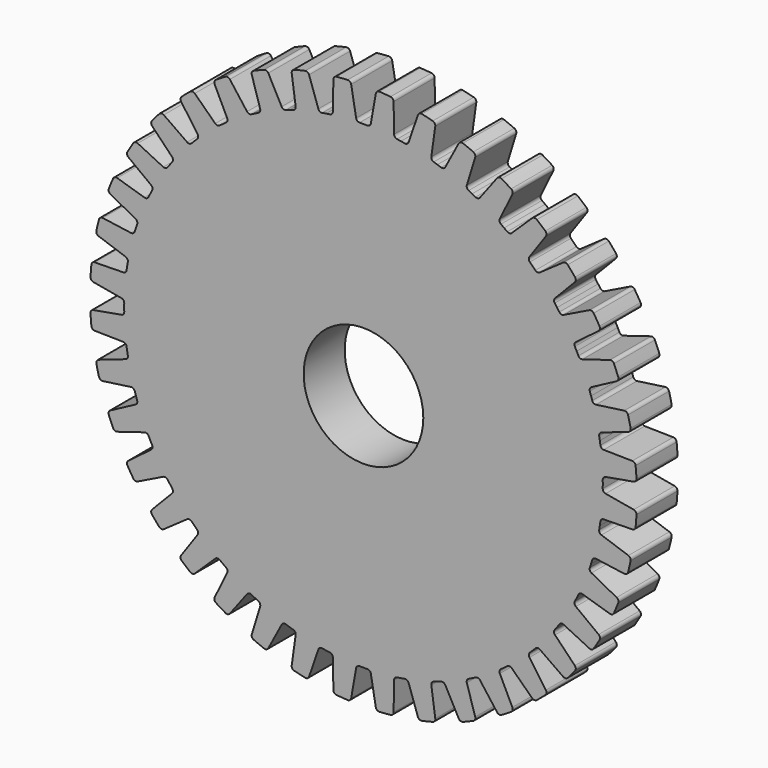
from build123d import *

# Parameters (mm, degrees)
F0_R     = 80
F0_R_2   = 17.5
F1_DEPTH = 7.5
F3_DEPTH = 12.5


with BuildPart() as f1:
    # F0 (on Front) → F1 (new body, symmetric)
    with BuildSketch(Plane.XZ):
        Circle(F0_R)
        Circle(F0_R_2, mode=Mode.SUBTRACT)
    extrude(amount=F1_DEPTH, both=True)

    # F2 (on Front) → F3 (cut, symmetric)
    with BuildSketch(Plane.XZ):
        with BuildLine():
            ThreePointArc((4.6419633423, 79.8652125542), (2.3219599117, 79.9662960388), (0, 80))
            Line((0, 80), (0, 70))
            ThreePointArc((0, 70), (0.5739483219, 69.9976469842), (1.1478580579, 69.990588095))
            ThreePointArc((1.1478580579, 69.990588095), (1.8007410339, 70.2191645624), (2.1490637832, 70.8168054615))
            Line((2.1490637832, 70.8168054615), (3.5991310475, 79.0405455749))
            ThreePointArc((3.5991310475, 79.0405455749), (3.963656053, 79.6512756945), (4.6419633423, 79.8652125542))
        make_face()
        with BuildLine():
            Line((0, 70), (0, 80))
            ThreePointArc((0, 80), (-2.3219599117, 79.9662960388), (-4.6419633423, 79.8652125542))
            ThreePointArc((-4.6419633423, 79.8652125542), (-3.963656053, 79.6512756945), (-3.5991310475, 79.0405455749))
            Line((-3.5991310475, 79.0405455749), (-2.1490637832, 70.8168054615))
            ThreePointArc((-2.1490637832, 70.8168054615), (-1.8007410339, 70.2191645624), (-1.1478580579, 69.990588095))
            ThreePointArc((-1.1478580579, 69.990588095), (-0.5739483219, 69.9976469842), (0, 70))
        make_face()
        with BuildLine():
            ThreePointArc((-7.9088587306, 79.6081023111), (-10.2161120099, 79.3450127948), (-12.5147572032, 79.0150672476))
            Line((-12.5147572032, 79.0150672476), (-10.9504125528, 69.1381838417))
            ThreePointArc((-10.9504125528, 69.1381838417), (-10.3831623944, 69.2256450941), (-9.8152141861, 69.308452374))
            ThreePointArc((-9.8152141861, 69.308452374), (-9.2061265202, 69.6363480849), (-8.9555838364, 70.2811207158))
            Line((-8.9555838364, 70.2811207158), (-8.8098456916, 78.6304534387))
            ThreePointArc((-8.8098456916, 78.6304534387), (-8.5453478334, 79.2906887313), (-7.9088587306, 79.6081023111))
        make_face()
        with BuildLine():
            Line((-10.9504125528, 69.1381838417), (-12.5147572032, 79.0150672476))
            ThreePointArc((-12.5147572032, 79.0150672476), (-14.8028574742, 78.6185436815), (-17.0784848719, 78.1557762068))
            ThreePointArc((-17.0784848719, 78.1557762068), (-16.3750615727, 78.0505839027), (-15.9194852354, 77.5043971586))
            Line((-15.9194852354, 77.5043971586), (-13.20079432, 69.6087454293))
            ThreePointArc((-13.20079432, 69.6087454293), (-12.7632683675, 69.0729521643), (-12.0826662269, 68.9493232516))
            ThreePointArc((-12.0826662269, 68.9493232516), (-11.5169265257, 69.0460744967), (-10.9504125528, 69.1381838417))
        make_face()
        with BuildLine():
            ThreePointArc((-20.2649384535, 77.390776385), (-22.5026293486, 76.7699920047), (-24.72135955, 76.0845213036))
            Line((-24.72135955, 76.0845213036), (-21.6311896062, 66.5739561407))
            ThreePointArc((-21.6311896062, 66.5739561407), (-21.0846051928, 66.749078075), (-20.5366032819, 66.9197125341))
            ThreePointArc((-20.5366032819, 66.9197125341), (-19.9863086861, 67.3388536078), (-19.83971526, 68.0148815284))
            Line((-19.83971526, 68.0148815284), (-21.0018947916, 76.2842185792))
            ThreePointArc((-21.0018947916, 76.2842185792), (-20.8439368957, 76.9777018607), (-20.2649384535, 77.390776385))
        make_face()
        with BuildLine():
            Line((-21.6311896062, 66.5739561407), (-24.72135955, 76.0845213036))
            ThreePointArc((-24.72135955, 76.0845213036), (-26.9192595578, 75.3349418587), (-29.0944774237, 74.5218852649))
            ThreePointArc((-29.0944774237, 74.5218852649), (-28.3832587308, 74.5280277003), (-27.847848863, 74.0598332619))
            Line((-27.847848863, 74.0598332619), (-23.9274774899, 66.6866870664))
            ThreePointArc((-23.9274774899, 66.6866870664), (-23.4115216751, 66.2259344439), (-22.7199590534, 66.21029724))
            ThreePointArc((-22.7199590534, 66.21029724), (-22.176319776, 66.3943585043), (-21.6311896062, 66.5739561407))
        make_face()
        with BuildLine():
            ThreePointArc((-32.1220281363, 73.267832699), (-34.2350572707, 72.3046392265), (-36.3192399792, 71.2805219351))
            Line((-36.3192399792, 71.2805219351), (-31.7793349818, 62.3704566932))
            ThreePointArc((-31.7793349818, 62.3704566932), (-31.2668750356, 62.6289272263), (-30.7523130479, 62.8831872777))
            ThreePointArc((-30.7523130479, 62.8831872777), (-30.2743616014, 63.3832530701), (-30.2353270497, 64.0738902293))
            Line((-30.2353270497, 64.0738902293), (-32.6768075405, 72.0596130856))
            ThreePointArc((-32.6768075405, 72.0596130856), (-32.6292790546, 72.769268496), (-32.1220281363, 73.267832699))
        make_face()
        with BuildLine():
            Line((-31.7793349818, 62.3704566932), (-36.3192399792, 71.2805219351))
            ThreePointArc((-36.3192399792, 71.2805219351), (-38.3728201312, 70.1963437451), (-40.3940673823, 69.053018184))
            ThreePointArc((-40.3940673823, 69.053018184), (-39.6925658603, 69.1703441114), (-39.09050603, 68.7916704798))
            Line((-39.09050603, 68.7916704798), (-34.0649867531, 62.1225811475))
            ThreePointArc((-34.0649867531, 62.1225811475), (-33.4833056206, 61.7482144263), (-32.7978110847, 61.8409539711))
            ThreePointArc((-32.7978110847, 61.8409539711), (-32.2896584343, 62.1077930553), (-31.7793349818, 62.3704566932))
        make_face()
        with BuildLine():
            ThreePointArc((-43.1881668794, 67.34079181), (-45.1245044632, 66.0589062651), (-47.0228201834, 64.72135955))
            Line((-47.0228201834, 64.72135955), (-41.1449676605, 56.6311896062))
            ThreePointArc((-41.1449676605, 56.6311896062), (-40.6792506461, 56.9666443357), (-40.2107988055, 57.2982692533))
            ThreePointArc((-40.2107988055, 57.2982692533), (-39.8169592592, 57.8669464848), (-39.8864447422, 58.5551871037))
            Line((-39.8864447422, 58.5551871037), (-43.5471088397, 66.0606607656))
            ThreePointArc((-43.5471088397, 66.0606607656), (-43.6111800728, 66.7690142336), (-43.1881668794, 67.34079181))
        make_face()
        with BuildLine():
            Line((-41.1449676605, 56.6311896062), (-47.0228201834, 64.72135955))
            ThreePointArc((-47.0228201834, 64.72135955), (-48.8815145209, 63.3292786801), (-50.6990213417, 61.8838366214))
            ThreePointArc((-50.6990213417, 61.8838366214), (-50.0245102863, 62.1094570874), (-49.3706252045, 61.829628464))
            Line((-49.3706252045, 61.829628464), (-43.3637029873, 56.0288111077))
            ThreePointArc((-43.3637029873, 56.0288111077), (-42.730619457, 55.7500484389), (-42.0680721575, 55.948881177))
            ThreePointArc((-42.0680721575, 55.948881177), (-41.6079185388, 56.2919276173), (-41.1449676605, 56.6311896062))
        make_face()
        with BuildLine():
            ThreePointArc((-53.1908696206, 59.7555971353), (-54.9028365962, 58.1865837946), (-56.5685424949, 56.5685424949))
            Line((-56.5685424949, 56.5685424949), (-49.4974746831, 49.4974746831))
            ThreePointArc((-49.4974746831, 49.4974746831), (-49.0899680991, 49.9016536001), (-48.6791612446, 50.3024776778))
            ThreePointArc((-48.6791612446, 50.3024776778), (-48.3791312351, 50.9257636276), (-48.5554257895, 51.5946609381))
            Line((-48.5554257895, 51.5946609381), (-53.3451357947, 58.4350757348))
            ThreePointArc((-53.3451357947, 58.4350757348), (-53.5192291004, 59.1246852471), (-53.1908696206, 59.7555971353))
        make_face()
        with BuildLine():
            Line((-49.4974746831, 49.4974746831), (-56.5685424949, 56.5685424949))
            ThreePointArc((-56.5685424949, 56.5685424949), (-58.1865837946, 54.9028365962), (-59.7555971353, 53.1908696206))
            ThreePointArc((-59.7555971353, 53.1908696206), (-59.1246852471, 53.5192291004), (-58.4350757348, 53.3451357947))
            Line((-58.4350757348, 53.3451357947), (-51.5946609381, 48.5554257895))
            ThreePointArc((-51.5946609381, 48.5554257895), (-50.9257636276, 48.3791312351), (-50.3024776778, 48.6791612446))
            ThreePointArc((-50.3024776778, 48.6791612446), (-49.9016536001, 49.0899680991), (-49.4974746831, 49.4974746831))
        make_face()
        with BuildLine():
            ThreePointArc((-61.8838366214, 50.6990213417), (-63.3292786801, 48.8815145209), (-64.72135955, 47.0228201834))
            Line((-64.72135955, 47.0228201834), (-56.6311896062, 41.1449676605))
            ThreePointArc((-56.6311896062, 41.1449676605), (-56.2919276173, 41.6079185388), (-55.948881177, 42.0680721575))
            ThreePointArc((-55.948881177, 42.0680721575), (-55.7500484389, 42.730619457), (-56.0288111077, 43.3637029873))
            Line((-56.0288111077, 43.3637029873), (-61.829628464, 49.3706252045))
            ThreePointArc((-61.829628464, 49.3706252045), (-62.1094570874, 50.0245102863), (-61.8838366214, 50.6990213417))
        make_face()
        with BuildLine():
            Line((-56.6311896062, 41.1449676605), (-64.72135955, 47.0228201834))
            ThreePointArc((-64.72135955, 47.0228201834), (-66.0589062651, 45.1245044632), (-67.34079181, 43.1881668794))
            ThreePointArc((-67.34079181, 43.1881668794), (-66.7690142336, 43.6111800728), (-66.0606607656, 43.5471088397))
            Line((-66.0606607656, 43.5471088397), (-58.5551871037, 39.8864447422))
            ThreePointArc((-58.5551871037, 39.8864447422), (-57.8669464848, 39.8169592592), (-57.2982692533, 40.2107988055))
            ThreePointArc((-57.2982692533, 40.2107988055), (-56.9666443357, 40.6792506461), (-56.6311896062, 41.1449676605))
        make_face()
        with BuildLine():
            ThreePointArc((-69.053018184, 40.3940673823), (-70.1963437451, 38.3728201312), (-71.2805219351, 36.3192399792))
            Line((-71.2805219351, 36.3192399792), (-62.3704566932, 31.7793349818))
            ThreePointArc((-62.3704566932, 31.7793349818), (-62.1077930553, 32.2896584343), (-61.8409539711, 32.7978110847))
            ThreePointArc((-61.8409539711, 32.7978110847), (-61.7482144263, 33.4833056206), (-62.1225811475, 34.0649867531))
            Line((-62.1225811475, 34.0649867531), (-68.7916704798, 39.09050603))
            ThreePointArc((-68.7916704798, 39.09050603), (-69.1703441114, 39.6925658603), (-69.053018184, 40.3940673823))
        make_face()
        with BuildLine():
            Line((-62.3704566932, 31.7793349818), (-71.2805219351, 36.3192399792))
            ThreePointArc((-71.2805219351, 36.3192399792), (-72.3046392265, 34.2350572707), (-73.267832699, 32.1220281363))
            ThreePointArc((-73.267832699, 32.1220281363), (-72.769268496, 32.6292790546), (-72.0596130856, 32.6768075405))
            Line((-72.0596130856, 32.6768075405), (-64.0738902293, 30.2353270497))
            ThreePointArc((-64.0738902293, 30.2353270497), (-63.3832530701, 30.2743616014), (-62.8831872777, 30.7523130479))
            ThreePointArc((-62.8831872777, 30.7523130479), (-62.6289272263, 31.2668750356), (-62.3704566932, 31.7793349818))
        make_face()
        with BuildLine():
            ThreePointArc((-74.5218852649, 29.0944774237), (-75.3349418587, 26.9192595578), (-76.0845213036, 24.72135955))
            Line((-76.0845213036, 24.72135955), (-66.5739561407, 21.6311896062))
            ThreePointArc((-66.5739561407, 21.6311896062), (-66.3943585043, 22.176319776), (-66.21029724, 22.7199590534))
            ThreePointArc((-66.21029724, 22.7199590534), (-66.2259344439, 23.4115216751), (-66.6866870664, 23.9274774899))
            Line((-66.6866870664, 23.9274774899), (-74.0598332619, 27.847848863))
            ThreePointArc((-74.0598332619, 27.847848863), (-74.5280277003, 28.3832587308), (-74.5218852649, 29.0944774237))
        make_face()
        with BuildLine():
            Line((-66.5739561407, 21.6311896062), (-76.0845213036, 24.72135955))
            ThreePointArc((-76.0845213036, 24.72135955), (-76.7699920047, 22.5026293486), (-77.390776385, 20.2649384535))
            ThreePointArc((-77.390776385, 20.2649384535), (-76.9777018607, 20.8439368957), (-76.2842185792, 21.0018947916))
            Line((-76.2842185792, 21.0018947916), (-68.0148815284, 19.83971526))
            ThreePointArc((-68.0148815284, 19.83971526), (-67.3388536078, 19.9863086861), (-66.9197125341, 20.5366032819))
            ThreePointArc((-66.9197125341, 20.5366032819), (-66.749078075, 21.0846051928), (-66.5739561407, 21.6311896062))
        make_face()
        with BuildLine():
            ThreePointArc((-78.1557762068, 17.0784848719), (-78.6185436815, 14.8028574742), (-79.0150672476, 12.5147572032))
            Line((-79.0150672476, 12.5147572032), (-69.1381838417, 10.9504125528))
            ThreePointArc((-69.1381838417, 10.9504125528), (-69.0460744967, 11.5169265257), (-68.9493232516, 12.0826662269))
            ThreePointArc((-68.9493232516, 12.0826662269), (-69.0729521643, 12.7632683675), (-69.6087454293, 13.20079432))
            Line((-69.6087454293, 13.20079432), (-77.5043971586, 15.9194852354))
            ThreePointArc((-77.5043971586, 15.9194852354), (-78.0505839027, 16.3750615727), (-78.1557762068, 17.0784848719))
        make_face()
        with BuildLine():
            Line((-69.1381838417, 10.9504125528), (-79.0150672476, 12.5147572032))
            ThreePointArc((-79.0150672476, 12.5147572032), (-79.3450127948, 10.2161120099), (-79.6081023111, 7.9088587306))
            ThreePointArc((-79.6081023111, 7.9088587306), (-79.2906887313, 8.5453478334), (-78.6304534387, 8.8098456916))
            Line((-78.6304534387, 8.8098456916), (-70.2811207158, 8.9555838364))
            ThreePointArc((-70.2811207158, 8.9555838364), (-69.6363480849, 9.2061265202), (-69.308452374, 9.8152141861))
            ThreePointArc((-69.308452374, 9.8152141861), (-69.2256450941, 10.3831623944), (-69.1381838417, 10.9504125528))
        make_face()
        with BuildLine():
            ThreePointArc((-79.8652125542, 4.6419633423), (-79.9662960388, 2.3219599117), (-80, 0))
            Line((-80, 0), (-70, 0))
            ThreePointArc((-70, 0), (-69.9976469842, 0.5739483219), (-69.990588095, 1.1478580579))
            ThreePointArc((-69.990588095, 1.1478580579), (-70.2191645624, 1.8007410339), (-70.8168054615, 2.1490637832))
            Line((-70.8168054615, 2.1490637832), (-79.0405455749, 3.5991310475))
            ThreePointArc((-79.0405455749, 3.5991310475), (-79.6512756945, 3.963656053), (-79.8652125542, 4.6419633423))
        make_face()
        with BuildLine():
            Line((-70, 0), (-80, 0))
            ThreePointArc((-80, 0), (-79.9662960388, -2.3219599117), (-79.8652125542, -4.6419633423))
            ThreePointArc((-79.8652125542, -4.6419633423), (-79.6512756945, -3.963656053), (-79.0405455749, -3.5991310475))
            Line((-79.0405455749, -3.5991310475), (-70.8168054615, -2.1490637832))
            ThreePointArc((-70.8168054615, -2.1490637832), (-70.2191645624, -1.8007410339), (-69.990588095, -1.1478580579))
            ThreePointArc((-69.990588095, -1.1478580579), (-69.9976469842, -0.5739483219), (-70, 0))
        make_face()
        with BuildLine():
            ThreePointArc((-79.6081023111, -7.9088587306), (-79.3450127948, -10.2161120099), (-79.0150672476, -12.5147572032))
            Line((-79.0150672476, -12.5147572032), (-69.1381838417, -10.9504125528))
            ThreePointArc((-69.1381838417, -10.9504125528), (-69.2256450941, -10.3831623944), (-69.308452374, -9.8152141861))
            ThreePointArc((-69.308452374, -9.8152141861), (-69.6363480849, -9.2061265202), (-70.2811207158, -8.9555838364))
            Line((-70.2811207158, -8.9555838364), (-78.6304534387, -8.8098456916))
            ThreePointArc((-78.6304534387, -8.8098456916), (-79.2906887313, -8.5453478334), (-79.6081023111, -7.9088587306))
        make_face()
        with BuildLine():
            Line((-69.1381838417, -10.9504125528), (-79.0150672476, -12.5147572032))
            ThreePointArc((-79.0150672476, -12.5147572032), (-78.6185436815, -14.8028574742), (-78.1557762068, -17.0784848719))
            ThreePointArc((-78.1557762068, -17.0784848719), (-78.0505839027, -16.3750615727), (-77.5043971586, -15.9194852354))
            Line((-77.5043971586, -15.9194852354), (-69.6087454293, -13.20079432))
            ThreePointArc((-69.6087454293, -13.20079432), (-69.0729521643, -12.7632683675), (-68.9493232516, -12.0826662269))
            ThreePointArc((-68.9493232516, -12.0826662269), (-69.0460744967, -11.5169265257), (-69.1381838417, -10.9504125528))
        make_face()
        with BuildLine():
            ThreePointArc((-77.390776385, -20.2649384535), (-76.7699920047, -22.5026293486), (-76.0845213036, -24.72135955))
            Line((-76.0845213036, -24.72135955), (-66.5739561407, -21.6311896062))
            ThreePointArc((-66.5739561407, -21.6311896062), (-66.749078075, -21.0846051928), (-66.9197125341, -20.5366032819))
            ThreePointArc((-66.9197125341, -20.5366032819), (-67.3388536078, -19.9863086861), (-68.0148815284, -19.83971526))
            Line((-68.0148815284, -19.83971526), (-76.2842185792, -21.0018947916))
            ThreePointArc((-76.2842185792, -21.0018947916), (-76.9777018607, -20.8439368957), (-77.390776385, -20.2649384535))
        make_face()
        with BuildLine():
            Line((-66.5739561407, -21.6311896062), (-76.0845213036, -24.72135955))
            ThreePointArc((-76.0845213036, -24.72135955), (-75.3349418587, -26.9192595578), (-74.5218852649, -29.0944774237))
            ThreePointArc((-74.5218852649, -29.0944774237), (-74.5280277003, -28.3832587308), (-74.0598332619, -27.847848863))
            Line((-74.0598332619, -27.847848863), (-66.6866870664, -23.9274774899))
            ThreePointArc((-66.6866870664, -23.9274774899), (-66.2259344439, -23.4115216751), (-66.21029724, -22.7199590534))
            ThreePointArc((-66.21029724, -22.7199590534), (-66.3943585043, -22.176319776), (-66.5739561407, -21.6311896062))
        make_face()
        with BuildLine():
            ThreePointArc((-73.267832699, -32.1220281363), (-72.3046392265, -34.2350572707), (-71.2805219351, -36.3192399792))
            Line((-71.2805219351, -36.3192399792), (-62.3704566932, -31.7793349818))
            ThreePointArc((-62.3704566932, -31.7793349818), (-62.6289272263, -31.2668750356), (-62.8831872777, -30.7523130479))
            ThreePointArc((-62.8831872777, -30.7523130479), (-63.3832530701, -30.2743616014), (-64.0738902293, -30.2353270497))
            Line((-64.0738902293, -30.2353270497), (-72.0596130856, -32.6768075405))
            ThreePointArc((-72.0596130856, -32.6768075405), (-72.769268496, -32.6292790546), (-73.267832699, -32.1220281363))
        make_face()
        with BuildLine():
            Line((-62.3704566932, -31.7793349818), (-71.2805219351, -36.3192399792))
            ThreePointArc((-71.2805219351, -36.3192399792), (-70.1963437451, -38.3728201312), (-69.053018184, -40.3940673823))
            ThreePointArc((-69.053018184, -40.3940673823), (-69.1703441114, -39.6925658603), (-68.7916704798, -39.09050603))
            Line((-68.7916704798, -39.09050603), (-62.1225811475, -34.0649867531))
            ThreePointArc((-62.1225811475, -34.0649867531), (-61.7482144263, -33.4833056206), (-61.8409539711, -32.7978110847))
            ThreePointArc((-61.8409539711, -32.7978110847), (-62.1077930553, -32.2896584343), (-62.3704566932, -31.7793349818))
        make_face()
        with BuildLine():
            ThreePointArc((-67.34079181, -43.1881668794), (-66.0589062651, -45.1245044632), (-64.72135955, -47.0228201834))
            Line((-64.72135955, -47.0228201834), (-56.6311896062, -41.1449676605))
            ThreePointArc((-56.6311896062, -41.1449676605), (-56.9666443357, -40.6792506461), (-57.2982692533, -40.2107988055))
            ThreePointArc((-57.2982692533, -40.2107988055), (-57.8669464848, -39.8169592592), (-58.5551871037, -39.8864447422))
            Line((-58.5551871037, -39.8864447422), (-66.0606607656, -43.5471088397))
            ThreePointArc((-66.0606607656, -43.5471088397), (-66.7690142336, -43.6111800728), (-67.34079181, -43.1881668794))
        make_face()
        with BuildLine():
            Line((-56.6311896062, -41.1449676605), (-64.72135955, -47.0228201834))
            ThreePointArc((-64.72135955, -47.0228201834), (-63.3292786801, -48.8815145209), (-61.8838366214, -50.6990213417))
            ThreePointArc((-61.8838366214, -50.6990213417), (-62.1094570874, -50.0245102863), (-61.829628464, -49.3706252045))
            Line((-61.829628464, -49.3706252045), (-56.0288111077, -43.3637029873))
            ThreePointArc((-56.0288111077, -43.3637029873), (-55.7500484389, -42.730619457), (-55.948881177, -42.0680721575))
            ThreePointArc((-55.948881177, -42.0680721575), (-56.2919276173, -41.6079185388), (-56.6311896062, -41.1449676605))
        make_face()
        with BuildLine():
            ThreePointArc((-59.7555971353, -53.1908696206), (-58.1865837946, -54.9028365962), (-56.5685424949, -56.5685424949))
            Line((-56.5685424949, -56.5685424949), (-49.4974746831, -49.4974746831))
            ThreePointArc((-49.4974746831, -49.4974746831), (-49.9016536001, -49.0899680991), (-50.3024776778, -48.6791612446))
            ThreePointArc((-50.3024776778, -48.6791612446), (-50.9257636276, -48.3791312351), (-51.5946609381, -48.5554257895))
            Line((-51.5946609381, -48.5554257895), (-58.4350757348, -53.3451357947))
            ThreePointArc((-58.4350757348, -53.3451357947), (-59.1246852471, -53.5192291004), (-59.7555971353, -53.1908696206))
        make_face()
        with BuildLine():
            Line((-49.4974746831, -49.4974746831), (-56.5685424949, -56.5685424949))
            ThreePointArc((-56.5685424949, -56.5685424949), (-54.9028365962, -58.1865837946), (-53.1908696206, -59.7555971353))
            ThreePointArc((-53.1908696206, -59.7555971353), (-53.5192291004, -59.1246852471), (-53.3451357947, -58.4350757348))
            Line((-53.3451357947, -58.4350757348), (-48.5554257895, -51.5946609381))
            ThreePointArc((-48.5554257895, -51.5946609381), (-48.3791312351, -50.9257636276), (-48.6791612446, -50.3024776778))
            ThreePointArc((-48.6791612446, -50.3024776778), (-49.0899680991, -49.9016536001), (-49.4974746831, -49.4974746831))
        make_face()
        with BuildLine():
            ThreePointArc((-50.6990213417, -61.8838366214), (-48.8815145209, -63.3292786801), (-47.0228201834, -64.72135955))
            Line((-47.0228201834, -64.72135955), (-41.1449676605, -56.6311896062))
            ThreePointArc((-41.1449676605, -56.6311896062), (-41.6079185388, -56.2919276173), (-42.0680721575, -55.948881177))
            ThreePointArc((-42.0680721575, -55.948881177), (-42.730619457, -55.7500484389), (-43.3637029873, -56.0288111077))
            Line((-43.3637029873, -56.0288111077), (-49.3706252045, -61.829628464))
            ThreePointArc((-49.3706252045, -61.829628464), (-50.0245102863, -62.1094570874), (-50.6990213417, -61.8838366214))
        make_face()
        with BuildLine():
            Line((-41.1449676605, -56.6311896062), (-47.0228201834, -64.72135955))
            ThreePointArc((-47.0228201834, -64.72135955), (-45.1245044632, -66.0589062651), (-43.1881668794, -67.34079181))
            ThreePointArc((-43.1881668794, -67.34079181), (-43.6111800728, -66.7690142336), (-43.5471088397, -66.0606607656))
            Line((-43.5471088397, -66.0606607656), (-39.8864447422, -58.5551871037))
            ThreePointArc((-39.8864447422, -58.5551871037), (-39.8169592592, -57.8669464848), (-40.2107988055, -57.2982692533))
            ThreePointArc((-40.2107988055, -57.2982692533), (-40.6792506461, -56.9666443357), (-41.1449676605, -56.6311896062))
        make_face()
        with BuildLine():
            ThreePointArc((-40.3940673823, -69.053018184), (-38.3728201312, -70.1963437451), (-36.3192399792, -71.2805219351))
            Line((-36.3192399792, -71.2805219351), (-31.7793349818, -62.3704566932))
            ThreePointArc((-31.7793349818, -62.3704566932), (-32.2896584343, -62.1077930553), (-32.7978110847, -61.8409539711))
            ThreePointArc((-32.7978110847, -61.8409539711), (-33.4833056206, -61.7482144263), (-34.0649867531, -62.1225811475))
            Line((-34.0649867531, -62.1225811475), (-39.09050603, -68.7916704798))
            ThreePointArc((-39.09050603, -68.7916704798), (-39.6925658603, -69.1703441114), (-40.3940673823, -69.053018184))
        make_face()
        with BuildLine():
            Line((-31.7793349818, -62.3704566932), (-36.3192399792, -71.2805219351))
            ThreePointArc((-36.3192399792, -71.2805219351), (-34.2350572707, -72.3046392265), (-32.1220281363, -73.267832699))
            ThreePointArc((-32.1220281363, -73.267832699), (-32.6292790546, -72.769268496), (-32.6768075405, -72.0596130856))
            Line((-32.6768075405, -72.0596130856), (-30.2353270497, -64.0738902293))
            ThreePointArc((-30.2353270497, -64.0738902293), (-30.2743616014, -63.3832530701), (-30.7523130479, -62.8831872777))
            ThreePointArc((-30.7523130479, -62.8831872777), (-31.2668750356, -62.6289272263), (-31.7793349818, -62.3704566932))
        make_face()
        with BuildLine():
            ThreePointArc((-29.0944774237, -74.5218852649), (-26.9192595578, -75.3349418587), (-24.72135955, -76.0845213036))
            Line((-24.72135955, -76.0845213036), (-21.6311896062, -66.5739561407))
            ThreePointArc((-21.6311896062, -66.5739561407), (-22.176319776, -66.3943585043), (-22.7199590534, -66.21029724))
            ThreePointArc((-22.7199590534, -66.21029724), (-23.4115216751, -66.2259344439), (-23.9274774899, -66.6866870664))
            Line((-23.9274774899, -66.6866870664), (-27.847848863, -74.0598332619))
            ThreePointArc((-27.847848863, -74.0598332619), (-28.3832587308, -74.5280277003), (-29.0944774237, -74.5218852649))
        make_face()
        with BuildLine():
            Line((-21.6311896062, -66.5739561407), (-24.72135955, -76.0845213036))
            ThreePointArc((-24.72135955, -76.0845213036), (-22.5026293486, -76.7699920047), (-20.2649384535, -77.390776385))
            ThreePointArc((-20.2649384535, -77.390776385), (-20.8439368957, -76.9777018607), (-21.0018947916, -76.2842185792))
            Line((-21.0018947916, -76.2842185792), (-19.83971526, -68.0148815284))
            ThreePointArc((-19.83971526, -68.0148815284), (-19.9863086861, -67.3388536078), (-20.5366032819, -66.9197125341))
            ThreePointArc((-20.5366032819, -66.9197125341), (-21.0846051928, -66.749078075), (-21.6311896062, -66.5739561407))
        make_face()
        with BuildLine():
            ThreePointArc((-17.0784848719, -78.1557762068), (-14.8028574742, -78.6185436815), (-12.5147572032, -79.0150672476))
            Line((-12.5147572032, -79.0150672476), (-10.9504125528, -69.1381838417))
            ThreePointArc((-10.9504125528, -69.1381838417), (-11.5169265257, -69.0460744967), (-12.0826662269, -68.9493232516))
            ThreePointArc((-12.0826662269, -68.9493232516), (-12.7632683675, -69.0729521643), (-13.20079432, -69.6087454293))
            Line((-13.20079432, -69.6087454293), (-15.9194852354, -77.5043971586))
            ThreePointArc((-15.9194852354, -77.5043971586), (-16.3750615727, -78.0505839027), (-17.0784848719, -78.1557762068))
        make_face()
        with BuildLine():
            Line((-10.9504125528, -69.1381838417), (-12.5147572032, -79.0150672476))
            ThreePointArc((-12.5147572032, -79.0150672476), (-10.2161120099, -79.3450127948), (-7.9088587306, -79.6081023111))
            ThreePointArc((-7.9088587306, -79.6081023111), (-8.5453478334, -79.2906887313), (-8.8098456916, -78.6304534387))
            Line((-8.8098456916, -78.6304534387), (-8.9555838364, -70.2811207158))
            ThreePointArc((-8.9555838364, -70.2811207158), (-9.2061265202, -69.6363480849), (-9.8152141861, -69.308452374))
            ThreePointArc((-9.8152141861, -69.308452374), (-10.3831623944, -69.2256450941), (-10.9504125528, -69.1381838417))
        make_face()
        with BuildLine():
            ThreePointArc((-4.6419633423, -79.8652125542), (-2.3219599117, -79.9662960388), (0, -80))
            Line((0, -80), (0, -70))
            ThreePointArc((0, -70), (-0.5739483219, -69.9976469842), (-1.1478580579, -69.990588095))
            ThreePointArc((-1.1478580579, -69.990588095), (-1.8007410339, -70.2191645624), (-2.1490637832, -70.8168054615))
            Line((-2.1490637832, -70.8168054615), (-3.5991310475, -79.0405455749))
            ThreePointArc((-3.5991310475, -79.0405455749), (-3.963656053, -79.6512756945), (-4.6419633423, -79.8652125542))
        make_face()
        with BuildLine():
            Line((0, -70), (0, -80))
            ThreePointArc((0, -80), (2.3219599117, -79.9662960388), (4.6419633423, -79.8652125542))
            ThreePointArc((4.6419633423, -79.8652125542), (3.963656053, -79.6512756945), (3.5991310475, -79.0405455749))
            Line((3.5991310475, -79.0405455749), (2.1490637832, -70.8168054615))
            ThreePointArc((2.1490637832, -70.8168054615), (1.8007410339, -70.2191645624), (1.1478580579, -69.990588095))
            ThreePointArc((1.1478580579, -69.990588095), (0.5739483219, -69.9976469842), (0, -70))
        make_face()
        with BuildLine():
            ThreePointArc((7.9088587306, -79.6081023111), (10.2161120099, -79.3450127948), (12.5147572032, -79.0150672476))
            Line((12.5147572032, -79.0150672476), (10.9504125528, -69.1381838417))
            ThreePointArc((10.9504125528, -69.1381838417), (10.3831623944, -69.2256450941), (9.8152141861, -69.308452374))
            ThreePointArc((9.8152141861, -69.308452374), (9.2061265202, -69.6363480849), (8.9555838364, -70.2811207158))
            Line((8.9555838364, -70.2811207158), (8.8098456916, -78.6304534387))
            ThreePointArc((8.8098456916, -78.6304534387), (8.5453478334, -79.2906887313), (7.9088587306, -79.6081023111))
        make_face()
        with BuildLine():
            Line((10.9504125528, -69.1381838417), (12.5147572032, -79.0150672476))
            ThreePointArc((12.5147572032, -79.0150672476), (14.8028574742, -78.6185436815), (17.0784848719, -78.1557762068))
            ThreePointArc((17.0784848719, -78.1557762068), (16.3750615727, -78.0505839027), (15.9194852354, -77.5043971586))
            Line((15.9194852354, -77.5043971586), (13.20079432, -69.6087454293))
            ThreePointArc((13.20079432, -69.6087454293), (12.7632683675, -69.0729521643), (12.0826662269, -68.9493232516))
            ThreePointArc((12.0826662269, -68.9493232516), (11.5169265257, -69.0460744967), (10.9504125528, -69.1381838417))
        make_face()
        with BuildLine():
            ThreePointArc((20.2649384535, -77.390776385), (22.5026293486, -76.7699920047), (24.72135955, -76.0845213036))
            Line((24.72135955, -76.0845213036), (21.6311896062, -66.5739561407))
            ThreePointArc((21.6311896062, -66.5739561407), (21.0846051928, -66.749078075), (20.5366032819, -66.9197125341))
            ThreePointArc((20.5366032819, -66.9197125341), (19.9863086861, -67.3388536078), (19.83971526, -68.0148815284))
            Line((19.83971526, -68.0148815284), (21.0018947916, -76.2842185792))
            ThreePointArc((21.0018947916, -76.2842185792), (20.8439368957, -76.9777018607), (20.2649384535, -77.390776385))
        make_face()
        with BuildLine():
            Line((21.6311896062, -66.5739561407), (24.72135955, -76.0845213036))
            ThreePointArc((24.72135955, -76.0845213036), (26.9192595578, -75.3349418587), (29.0944774237, -74.5218852649))
            ThreePointArc((29.0944774237, -74.5218852649), (28.3832587308, -74.5280277003), (27.847848863, -74.0598332619))
            Line((27.847848863, -74.0598332619), (23.9274774899, -66.6866870664))
            ThreePointArc((23.9274774899, -66.6866870664), (23.4115216751, -66.2259344439), (22.7199590534, -66.21029724))
            ThreePointArc((22.7199590534, -66.21029724), (22.176319776, -66.3943585043), (21.6311896062, -66.5739561407))
        make_face()
        with BuildLine():
            ThreePointArc((32.1220281363, -73.267832699), (34.2350572707, -72.3046392265), (36.3192399792, -71.2805219351))
            Line((36.3192399792, -71.2805219351), (31.7793349818, -62.3704566932))
            ThreePointArc((31.7793349818, -62.3704566932), (31.2668750356, -62.6289272263), (30.7523130479, -62.8831872777))
            ThreePointArc((30.7523130479, -62.8831872777), (30.2743616014, -63.3832530701), (30.2353270497, -64.0738902293))
            Line((30.2353270497, -64.0738902293), (32.6768075405, -72.0596130856))
            ThreePointArc((32.6768075405, -72.0596130856), (32.6292790546, -72.769268496), (32.1220281363, -73.267832699))
        make_face()
        with BuildLine():
            Line((31.7793349818, -62.3704566932), (36.3192399792, -71.2805219351))
            ThreePointArc((36.3192399792, -71.2805219351), (38.3728201312, -70.1963437451), (40.3940673823, -69.053018184))
            ThreePointArc((40.3940673823, -69.053018184), (39.6925658603, -69.1703441114), (39.09050603, -68.7916704798))
            Line((39.09050603, -68.7916704798), (34.0649867531, -62.1225811475))
            ThreePointArc((34.0649867531, -62.1225811475), (33.4833056206, -61.7482144263), (32.7978110847, -61.8409539711))
            ThreePointArc((32.7978110847, -61.8409539711), (32.2896584343, -62.1077930553), (31.7793349818, -62.3704566932))
        make_face()
        with BuildLine():
            ThreePointArc((43.1881668794, -67.34079181), (45.1245044632, -66.0589062651), (47.0228201834, -64.72135955))
            Line((47.0228201834, -64.72135955), (41.1449676605, -56.6311896062))
            ThreePointArc((41.1449676605, -56.6311896062), (40.6792506461, -56.9666443357), (40.2107988055, -57.2982692533))
            ThreePointArc((40.2107988055, -57.2982692533), (39.8169592592, -57.8669464848), (39.8864447422, -58.5551871037))
            Line((39.8864447422, -58.5551871037), (43.5471088397, -66.0606607656))
            ThreePointArc((43.5471088397, -66.0606607656), (43.6111800728, -66.7690142336), (43.1881668794, -67.34079181))
        make_face()
        with BuildLine():
            Line((41.1449676605, -56.6311896062), (47.0228201834, -64.72135955))
            ThreePointArc((47.0228201834, -64.72135955), (48.8815145209, -63.3292786801), (50.6990213417, -61.8838366214))
            ThreePointArc((50.6990213417, -61.8838366214), (50.0245102863, -62.1094570874), (49.3706252045, -61.829628464))
            Line((49.3706252045, -61.829628464), (43.3637029873, -56.0288111077))
            ThreePointArc((43.3637029873, -56.0288111077), (42.730619457, -55.7500484389), (42.0680721575, -55.948881177))
            ThreePointArc((42.0680721575, -55.948881177), (41.6079185388, -56.2919276173), (41.1449676605, -56.6311896062))
        make_face()
        with BuildLine():
            ThreePointArc((53.1908696206, -59.7555971353), (54.9028365962, -58.1865837946), (56.5685424949, -56.5685424949))
            Line((56.5685424949, -56.5685424949), (49.4974746831, -49.4974746831))
            ThreePointArc((49.4974746831, -49.4974746831), (49.0899680991, -49.9016536001), (48.6791612446, -50.3024776778))
            ThreePointArc((48.6791612446, -50.3024776778), (48.3791312351, -50.9257636276), (48.5554257895, -51.5946609381))
            Line((48.5554257895, -51.5946609381), (53.3451357947, -58.4350757348))
            ThreePointArc((53.3451357947, -58.4350757348), (53.5192291004, -59.1246852471), (53.1908696206, -59.7555971353))
        make_face()
        with BuildLine():
            Line((49.4974746831, -49.4974746831), (56.5685424949, -56.5685424949))
            ThreePointArc((56.5685424949, -56.5685424949), (58.1865837946, -54.9028365962), (59.7555971353, -53.1908696206))
            ThreePointArc((59.7555971353, -53.1908696206), (59.1246852471, -53.5192291004), (58.4350757348, -53.3451357947))
            Line((58.4350757348, -53.3451357947), (51.5946609381, -48.5554257895))
            ThreePointArc((51.5946609381, -48.5554257895), (50.9257636276, -48.3791312351), (50.3024776778, -48.6791612446))
            ThreePointArc((50.3024776778, -48.6791612446), (49.9016536001, -49.0899680991), (49.4974746831, -49.4974746831))
        make_face()
        with BuildLine():
            ThreePointArc((61.8838366214, -50.6990213417), (63.3292786801, -48.8815145209), (64.72135955, -47.0228201834))
            Line((64.72135955, -47.0228201834), (56.6311896062, -41.1449676605))
            ThreePointArc((56.6311896062, -41.1449676605), (56.2919276173, -41.6079185388), (55.948881177, -42.0680721575))
            ThreePointArc((55.948881177, -42.0680721575), (55.7500484389, -42.730619457), (56.0288111077, -43.3637029873))
            Line((56.0288111077, -43.3637029873), (61.829628464, -49.3706252045))
            ThreePointArc((61.829628464, -49.3706252045), (62.1094570874, -50.0245102863), (61.8838366214, -50.6990213417))
        make_face()
        with BuildLine():
            Line((56.6311896062, -41.1449676605), (64.72135955, -47.0228201834))
            ThreePointArc((64.72135955, -47.0228201834), (66.0589062651, -45.1245044632), (67.34079181, -43.1881668794))
            ThreePointArc((67.34079181, -43.1881668794), (66.7690142336, -43.6111800728), (66.0606607656, -43.5471088397))
            Line((66.0606607656, -43.5471088397), (58.5551871037, -39.8864447422))
            ThreePointArc((58.5551871037, -39.8864447422), (57.8669464848, -39.8169592592), (57.2982692533, -40.2107988055))
            ThreePointArc((57.2982692533, -40.2107988055), (56.9666443357, -40.6792506461), (56.6311896062, -41.1449676605))
        make_face()
        with BuildLine():
            ThreePointArc((69.053018184, -40.3940673823), (70.1963437451, -38.3728201312), (71.2805219351, -36.3192399792))
            Line((71.2805219351, -36.3192399792), (62.3704566932, -31.7793349818))
            ThreePointArc((62.3704566932, -31.7793349818), (62.1077930553, -32.2896584343), (61.8409539711, -32.7978110847))
            ThreePointArc((61.8409539711, -32.7978110847), (61.7482144263, -33.4833056206), (62.1225811475, -34.0649867531))
            Line((62.1225811475, -34.0649867531), (68.7916704798, -39.09050603))
            ThreePointArc((68.7916704798, -39.09050603), (69.1703441114, -39.6925658603), (69.053018184, -40.3940673823))
        make_face()
        with BuildLine():
            Line((62.3704566932, -31.7793349818), (71.2805219351, -36.3192399792))
            ThreePointArc((71.2805219351, -36.3192399792), (72.3046392265, -34.2350572707), (73.267832699, -32.1220281363))
            ThreePointArc((73.267832699, -32.1220281363), (72.769268496, -32.6292790546), (72.0596130856, -32.6768075405))
            Line((72.0596130856, -32.6768075405), (64.0738902293, -30.2353270497))
            ThreePointArc((64.0738902293, -30.2353270497), (63.3832530701, -30.2743616014), (62.8831872777, -30.7523130479))
            ThreePointArc((62.8831872777, -30.7523130479), (62.6289272263, -31.2668750356), (62.3704566932, -31.7793349818))
        make_face()
        with BuildLine():
            ThreePointArc((74.5218852649, -29.0944774237), (75.3349418587, -26.9192595578), (76.0845213036, -24.72135955))
            Line((76.0845213036, -24.72135955), (66.5739561407, -21.6311896062))
            ThreePointArc((66.5739561407, -21.6311896062), (66.3943585043, -22.176319776), (66.21029724, -22.7199590534))
            ThreePointArc((66.21029724, -22.7199590534), (66.2259344439, -23.4115216751), (66.6866870664, -23.9274774899))
            Line((66.6866870664, -23.9274774899), (74.0598332619, -27.847848863))
            ThreePointArc((74.0598332619, -27.847848863), (74.5280277003, -28.3832587308), (74.5218852649, -29.0944774237))
        make_face()
        with BuildLine():
            Line((66.5739561407, -21.6311896062), (76.0845213036, -24.72135955))
            ThreePointArc((76.0845213036, -24.72135955), (76.7699920047, -22.5026293486), (77.390776385, -20.2649384535))
            ThreePointArc((77.390776385, -20.2649384535), (76.9777018607, -20.8439368957), (76.2842185792, -21.0018947916))
            Line((76.2842185792, -21.0018947916), (68.0148815284, -19.83971526))
            ThreePointArc((68.0148815284, -19.83971526), (67.3388536078, -19.9863086861), (66.9197125341, -20.5366032819))
            ThreePointArc((66.9197125341, -20.5366032819), (66.749078075, -21.0846051928), (66.5739561407, -21.6311896062))
        make_face()
        with BuildLine():
            ThreePointArc((78.1557762068, -17.0784848719), (78.6185436815, -14.8028574742), (79.0150672476, -12.5147572032))
            Line((79.0150672476, -12.5147572032), (69.1381838417, -10.9504125528))
            ThreePointArc((69.1381838417, -10.9504125528), (69.0460744967, -11.5169265257), (68.9493232516, -12.0826662269))
            ThreePointArc((68.9493232516, -12.0826662269), (69.0729521643, -12.7632683675), (69.6087454293, -13.20079432))
            Line((69.6087454293, -13.20079432), (77.5043971586, -15.9194852354))
            ThreePointArc((77.5043971586, -15.9194852354), (78.0505839027, -16.3750615727), (78.1557762068, -17.0784848719))
        make_face()
        with BuildLine():
            Line((69.1381838417, -10.9504125528), (79.0150672476, -12.5147572032))
            ThreePointArc((79.0150672476, -12.5147572032), (79.3450127948, -10.2161120099), (79.6081023111, -7.9088587306))
            ThreePointArc((79.6081023111, -7.9088587306), (79.2906887313, -8.5453478334), (78.6304534387, -8.8098456916))
            Line((78.6304534387, -8.8098456916), (70.2811207158, -8.9555838364))
            ThreePointArc((70.2811207158, -8.9555838364), (69.6363480849, -9.2061265202), (69.308452374, -9.8152141861))
            ThreePointArc((69.308452374, -9.8152141861), (69.2256450941, -10.3831623944), (69.1381838417, -10.9504125528))
        make_face()
        with BuildLine():
            ThreePointArc((79.8652125542, -4.6419633423), (79.9662960388, -2.3219599117), (80, 0))
            Line((80, 0), (70, 0))
            ThreePointArc((70, 0), (69.9976469842, -0.5739483219), (69.990588095, -1.1478580579))
            ThreePointArc((69.990588095, -1.1478580579), (70.2191645624, -1.8007410339), (70.8168054615, -2.1490637832))
            Line((70.8168054615, -2.1490637832), (79.0405455749, -3.5991310475))
            ThreePointArc((79.0405455749, -3.5991310475), (79.6512756945, -3.963656053), (79.8652125542, -4.6419633423))
        make_face()
        with BuildLine():
            Line((70, 0), (80, 0))
            ThreePointArc((80, 0), (79.9662960388, 2.3219599117), (79.8652125542, 4.6419633423))
            ThreePointArc((79.8652125542, 4.6419633423), (79.6512756945, 3.963656053), (79.0405455749, 3.5991310475))
            Line((79.0405455749, 3.5991310475), (70.8168054615, 2.1490637832))
            ThreePointArc((70.8168054615, 2.1490637832), (70.2191645624, 1.8007410339), (69.990588095, 1.1478580579))
            ThreePointArc((69.990588095, 1.1478580579), (69.9976469842, 0.5739483219), (70, 0))
        make_face()
        with BuildLine():
            ThreePointArc((79.6081023111, 7.9088587306), (79.3450127948, 10.2161120099), (79.0150672476, 12.5147572032))
            Line((79.0150672476, 12.5147572032), (69.1381838417, 10.9504125528))
            ThreePointArc((69.1381838417, 10.9504125528), (69.2256450941, 10.3831623944), (69.308452374, 9.8152141861))
            ThreePointArc((69.308452374, 9.8152141861), (69.6363480849, 9.2061265202), (70.2811207158, 8.9555838364))
            Line((70.2811207158, 8.9555838364), (78.6304534387, 8.8098456916))
            ThreePointArc((78.6304534387, 8.8098456916), (79.2906887313, 8.5453478334), (79.6081023111, 7.9088587306))
        make_face()
        with BuildLine():
            Line((69.1381838417, 10.9504125528), (79.0150672476, 12.5147572032))
            ThreePointArc((79.0150672476, 12.5147572032), (78.6185436815, 14.8028574742), (78.1557762068, 17.0784848719))
            ThreePointArc((78.1557762068, 17.0784848719), (78.0505839027, 16.3750615727), (77.5043971586, 15.9194852354))
            Line((77.5043971586, 15.9194852354), (69.6087454293, 13.20079432))
            ThreePointArc((69.6087454293, 13.20079432), (69.0729521643, 12.7632683675), (68.9493232516, 12.0826662269))
            ThreePointArc((68.9493232516, 12.0826662269), (69.0460744967, 11.5169265257), (69.1381838417, 10.9504125528))
        make_face()
        with BuildLine():
            ThreePointArc((77.390776385, 20.2649384535), (76.7699920047, 22.5026293486), (76.0845213036, 24.72135955))
            Line((76.0845213036, 24.72135955), (66.5739561407, 21.6311896062))
            ThreePointArc((66.5739561407, 21.6311896062), (66.749078075, 21.0846051928), (66.9197125341, 20.5366032819))
            ThreePointArc((66.9197125341, 20.5366032819), (67.3388536078, 19.9863086861), (68.0148815284, 19.83971526))
            Line((68.0148815284, 19.83971526), (76.2842185792, 21.0018947916))
            ThreePointArc((76.2842185792, 21.0018947916), (76.9777018607, 20.8439368957), (77.390776385, 20.2649384535))
        make_face()
        with BuildLine():
            Line((66.5739561407, 21.6311896062), (76.0845213036, 24.72135955))
            ThreePointArc((76.0845213036, 24.72135955), (75.3349418587, 26.9192595578), (74.5218852649, 29.0944774237))
            ThreePointArc((74.5218852649, 29.0944774237), (74.5280277003, 28.3832587308), (74.0598332619, 27.847848863))
            Line((74.0598332619, 27.847848863), (66.6866870664, 23.9274774899))
            ThreePointArc((66.6866870664, 23.9274774899), (66.2259344439, 23.4115216751), (66.21029724, 22.7199590534))
            ThreePointArc((66.21029724, 22.7199590534), (66.3943585043, 22.176319776), (66.5739561407, 21.6311896062))
        make_face()
        with BuildLine():
            ThreePointArc((73.267832699, 32.1220281363), (72.3046392265, 34.2350572707), (71.2805219351, 36.3192399792))
            Line((71.2805219351, 36.3192399792), (62.3704566932, 31.7793349818))
            ThreePointArc((62.3704566932, 31.7793349818), (62.6289272263, 31.2668750356), (62.8831872777, 30.7523130479))
            ThreePointArc((62.8831872777, 30.7523130479), (63.3832530701, 30.2743616014), (64.0738902293, 30.2353270497))
            Line((64.0738902293, 30.2353270497), (72.0596130856, 32.6768075405))
            ThreePointArc((72.0596130856, 32.6768075405), (72.769268496, 32.6292790546), (73.267832699, 32.1220281363))
        make_face()
        with BuildLine():
            Line((62.3704566932, 31.7793349818), (71.2805219351, 36.3192399792))
            ThreePointArc((71.2805219351, 36.3192399792), (70.1963437451, 38.3728201312), (69.053018184, 40.3940673823))
            ThreePointArc((69.053018184, 40.3940673823), (69.1703441114, 39.6925658603), (68.7916704798, 39.09050603))
            Line((68.7916704798, 39.09050603), (62.1225811475, 34.0649867531))
            ThreePointArc((62.1225811475, 34.0649867531), (61.7482144263, 33.4833056206), (61.8409539711, 32.7978110847))
            ThreePointArc((61.8409539711, 32.7978110847), (62.1077930553, 32.2896584343), (62.3704566932, 31.7793349818))
        make_face()
        with BuildLine():
            ThreePointArc((67.34079181, 43.1881668794), (66.0589062651, 45.1245044632), (64.72135955, 47.0228201834))
            Line((64.72135955, 47.0228201834), (56.6311896062, 41.1449676605))
            ThreePointArc((56.6311896062, 41.1449676605), (56.9666443357, 40.6792506461), (57.2982692533, 40.2107988055))
            ThreePointArc((57.2982692533, 40.2107988055), (57.8669464848, 39.8169592592), (58.5551871037, 39.8864447422))
            Line((58.5551871037, 39.8864447422), (66.0606607656, 43.5471088397))
            ThreePointArc((66.0606607656, 43.5471088397), (66.7690142336, 43.6111800728), (67.34079181, 43.1881668794))
        make_face()
        with BuildLine():
            Line((56.6311896062, 41.1449676605), (64.72135955, 47.0228201834))
            ThreePointArc((64.72135955, 47.0228201834), (63.3292786801, 48.8815145209), (61.8838366214, 50.6990213417))
            ThreePointArc((61.8838366214, 50.6990213417), (62.1094570874, 50.0245102863), (61.829628464, 49.3706252045))
            Line((61.829628464, 49.3706252045), (56.0288111077, 43.3637029873))
            ThreePointArc((56.0288111077, 43.3637029873), (55.7500484389, 42.730619457), (55.948881177, 42.0680721575))
            ThreePointArc((55.948881177, 42.0680721575), (56.2919276173, 41.6079185388), (56.6311896062, 41.1449676605))
        make_face()
        with BuildLine():
            ThreePointArc((59.7555971353, 53.1908696206), (58.1865837946, 54.9028365962), (56.5685424949, 56.5685424949))
            Line((56.5685424949, 56.5685424949), (49.4974746831, 49.4974746831))
            ThreePointArc((49.4974746831, 49.4974746831), (49.9016536001, 49.0899680991), (50.3024776778, 48.6791612446))
            ThreePointArc((50.3024776778, 48.6791612446), (50.9257636276, 48.3791312351), (51.5946609381, 48.5554257895))
            Line((51.5946609381, 48.5554257895), (58.4350757348, 53.3451357947))
            ThreePointArc((58.4350757348, 53.3451357947), (59.1246852471, 53.5192291004), (59.7555971353, 53.1908696206))
        make_face()
        with BuildLine():
            Line((49.4974746831, 49.4974746831), (56.5685424949, 56.5685424949))
            ThreePointArc((56.5685424949, 56.5685424949), (54.9028365962, 58.1865837946), (53.1908696206, 59.7555971353))
            ThreePointArc((53.1908696206, 59.7555971353), (53.5192291004, 59.1246852471), (53.3451357947, 58.4350757348))
            Line((53.3451357947, 58.4350757348), (48.5554257895, 51.5946609381))
            ThreePointArc((48.5554257895, 51.5946609381), (48.3791312351, 50.9257636276), (48.6791612446, 50.3024776778))
            ThreePointArc((48.6791612446, 50.3024776778), (49.0899680991, 49.9016536001), (49.4974746831, 49.4974746831))
        make_face()
        with BuildLine():
            ThreePointArc((50.6990213417, 61.8838366214), (48.8815145209, 63.3292786801), (47.0228201834, 64.72135955))
            Line((47.0228201834, 64.72135955), (41.1449676605, 56.6311896062))
            ThreePointArc((41.1449676605, 56.6311896062), (41.6079185388, 56.2919276173), (42.0680721575, 55.948881177))
            ThreePointArc((42.0680721575, 55.948881177), (42.730619457, 55.7500484389), (43.3637029873, 56.0288111077))
            Line((43.3637029873, 56.0288111077), (49.3706252045, 61.829628464))
            ThreePointArc((49.3706252045, 61.829628464), (50.0245102863, 62.1094570874), (50.6990213417, 61.8838366214))
        make_face()
        with BuildLine():
            Line((41.1449676605, 56.6311896062), (47.0228201834, 64.72135955))
            ThreePointArc((47.0228201834, 64.72135955), (45.1245044632, 66.0589062651), (43.1881668794, 67.34079181))
            ThreePointArc((43.1881668794, 67.34079181), (43.6111800728, 66.7690142336), (43.5471088397, 66.0606607656))
            Line((43.5471088397, 66.0606607656), (39.8864447422, 58.5551871037))
            ThreePointArc((39.8864447422, 58.5551871037), (39.8169592592, 57.8669464848), (40.2107988055, 57.2982692533))
            ThreePointArc((40.2107988055, 57.2982692533), (40.6792506461, 56.9666443357), (41.1449676605, 56.6311896062))
        make_face()
        with BuildLine():
            ThreePointArc((40.3940673823, 69.053018184), (38.3728201312, 70.1963437451), (36.3192399792, 71.2805219351))
            Line((36.3192399792, 71.2805219351), (31.7793349818, 62.3704566932))
            ThreePointArc((31.7793349818, 62.3704566932), (32.2896584343, 62.1077930553), (32.7978110847, 61.8409539711))
            ThreePointArc((32.7978110847, 61.8409539711), (33.4833056206, 61.7482144263), (34.0649867531, 62.1225811475))
            Line((34.0649867531, 62.1225811475), (39.09050603, 68.7916704798))
            ThreePointArc((39.09050603, 68.7916704798), (39.6925658603, 69.1703441114), (40.3940673823, 69.053018184))
        make_face()
        with BuildLine():
            Line((31.7793349818, 62.3704566932), (36.3192399792, 71.2805219351))
            ThreePointArc((36.3192399792, 71.2805219351), (34.2350572707, 72.3046392265), (32.1220281363, 73.267832699))
            ThreePointArc((32.1220281363, 73.267832699), (32.6292790546, 72.769268496), (32.6768075405, 72.0596130856))
            Line((32.6768075405, 72.0596130856), (30.2353270497, 64.0738902293))
            ThreePointArc((30.2353270497, 64.0738902293), (30.2743616014, 63.3832530701), (30.7523130479, 62.8831872777))
            ThreePointArc((30.7523130479, 62.8831872777), (31.2668750356, 62.6289272263), (31.7793349818, 62.3704566932))
        make_face()
        with BuildLine():
            ThreePointArc((29.0944774237, 74.5218852649), (26.9192595578, 75.3349418587), (24.72135955, 76.0845213036))
            Line((24.72135955, 76.0845213036), (21.6311896062, 66.5739561407))
            ThreePointArc((21.6311896062, 66.5739561407), (22.176319776, 66.3943585043), (22.7199590534, 66.21029724))
            ThreePointArc((22.7199590534, 66.21029724), (23.4115216751, 66.2259344439), (23.9274774899, 66.6866870664))
            Line((23.9274774899, 66.6866870664), (27.847848863, 74.0598332619))
            ThreePointArc((27.847848863, 74.0598332619), (28.3832587308, 74.5280277003), (29.0944774237, 74.5218852649))
        make_face()
        with BuildLine():
            Line((21.6311896062, 66.5739561407), (24.72135955, 76.0845213036))
            ThreePointArc((24.72135955, 76.0845213036), (22.5026293486, 76.7699920047), (20.2649384535, 77.390776385))
            ThreePointArc((20.2649384535, 77.390776385), (20.8439368957, 76.9777018607), (21.0018947916, 76.2842185792))
            Line((21.0018947916, 76.2842185792), (19.83971526, 68.0148815284))
            ThreePointArc((19.83971526, 68.0148815284), (19.9863086861, 67.3388536078), (20.5366032819, 66.9197125341))
            ThreePointArc((20.5366032819, 66.9197125341), (21.0846051928, 66.749078075), (21.6311896062, 66.5739561407))
        make_face()
        with BuildLine():
            ThreePointArc((17.0784848719, 78.1557762068), (14.8028574742, 78.6185436815), (12.5147572032, 79.0150672476))
            Line((12.5147572032, 79.0150672476), (10.9504125528, 69.1381838417))
            ThreePointArc((10.9504125528, 69.1381838417), (11.5169265257, 69.0460744967), (12.0826662269, 68.9493232516))
            ThreePointArc((12.0826662269, 68.9493232516), (12.7632683675, 69.0729521643), (13.20079432, 69.6087454293))
            Line((13.20079432, 69.6087454293), (15.9194852354, 77.5043971586))
            ThreePointArc((15.9194852354, 77.5043971586), (16.3750615727, 78.0505839027), (17.0784848719, 78.1557762068))
        make_face()
        with BuildLine():
            Line((10.9504125528, 69.1381838417), (12.5147572032, 79.0150672476))
            ThreePointArc((12.5147572032, 79.0150672476), (10.2161120099, 79.3450127948), (7.9088587306, 79.6081023111))
            ThreePointArc((7.9088587306, 79.6081023111), (8.5453478334, 79.2906887313), (8.8098456916, 78.6304534387))
            Line((8.8098456916, 78.6304534387), (8.9555838364, 70.2811207158))
            ThreePointArc((8.9555838364, 70.2811207158), (9.2061265202, 69.6363480849), (9.8152141861, 69.308452374))
            ThreePointArc((9.8152141861, 69.308452374), (10.3831623944, 69.2256450941), (10.9504125528, 69.1381838417))
        make_face()
    extrude(amount=F3_DEPTH, both=True, mode=Mode.SUBTRACT)


solid = f1.part
